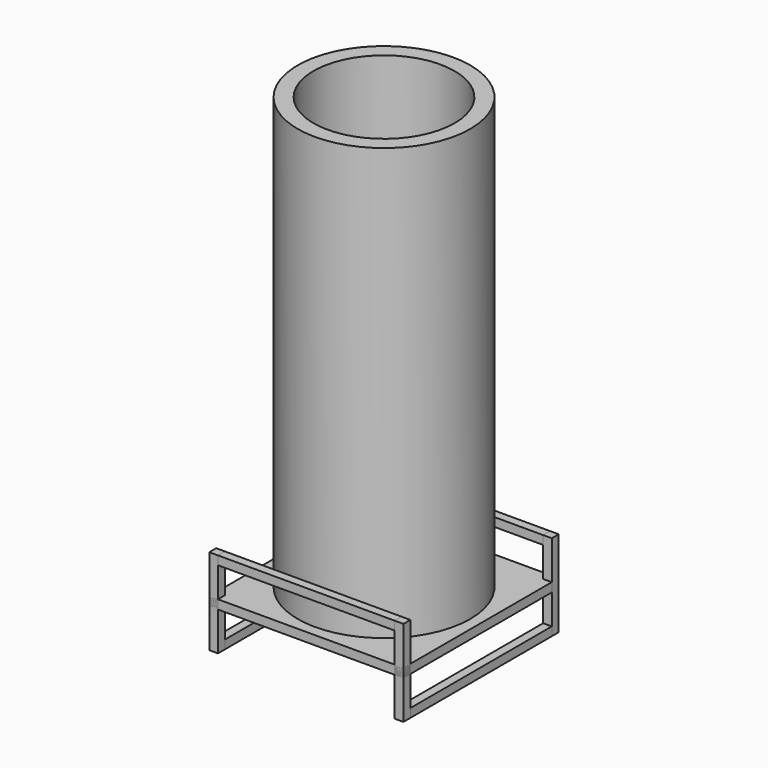
from build123d import *

# Parameters (mm, degrees)
F0_R          = 76.2
F0_R_2        = 62.357
F1_DEPTH      = 381
F3_W          = 7.665903
F3_H          = 7.665903
F4_DEPTH      = 3.96875
F5_DEPTH      = 1.524
F6_DEPTH      = 38.1
F6_DEPTH_BACK = 38.1
F7_COUNT      = 4
F8_W          = 7.665903
F8_H          = 7.665903
F9_DEPTH      = 156.118194
F10_W         = 7.665903
F10_H         = 7.665903
F11_DEPTH     = 156.118194


with BuildPart() as f1:
    # F0 (on Top) → F1 (new body)
    with BuildSketch(Plane.XY):
        Circle(F0_R)
        Circle(F0_R_2, mode=Mode.SUBTRACT)
    extrude(amount=F1_DEPTH)


with BuildPart() as f4:
    # F3 (on offset) → F4 (new body, symmetric)
    with BuildSketch(Plane.XY.offset(-3.96875)):
        with Locations((81.892048, 81.892048)):
            Rectangle(F3_W, F3_H)
        Polygon((78.059097, 78.059097), (78.059097, 85.725), (-85.725, 85.725), (-85.725, -85.725), (85.725, -85.725), (85.725, 78.059097), align=None)
    extrude(amount=F4_DEPTH, both=True)

    # F0 (on Top) → F5 (cut)
    with BuildSketch(Plane.XY):
        Circle(F0_R)
        Circle(F0_R_2, mode=Mode.SUBTRACT)
    extrude(amount=-F5_DEPTH, mode=Mode.SUBTRACT)


with BuildPart() as f6:
    # F3 (on offset) → F6 (new body, two sides)
    with BuildSketch(Plane.XY.offset(-3.96875)) as f6_sk:
        with Locations((81.892048, 81.892048)):
            Rectangle(F3_W, F3_H)
    extrude(amount=F6_DEPTH)
    extrude(f6_sk.sketch, amount=-F6_DEPTH_BACK)


with BuildPart() as f7_1:
    # F7: instance of F6
    add(f6.part.rotate(Axis((0, 0, 0), (0, 0, 1)), 1 * 360 / F7_COUNT))


with BuildPart() as f7_2:
    # F7: instance of F6
    add(f6.part.rotate(Axis((0, 0, 0), (0, 0, 1)), 2 * 360 / F7_COUNT))


with BuildPart() as f7_3:
    # F7: instance of F6
    add(f6.part.rotate(Axis((0, 0, 0), (0, 0, 1)), 3 * 360 / F7_COUNT))


with BuildPart() as f9:
    # F8 (on face) → F9 (new body, through all)
    with BuildSketch(Plane.YZ.offset(-78.059097)):
        with Locations((81.892048, 30.298299)):
            Rectangle(F8_W, F8_H)
        with Locations((-81.892048, 30.298299)):
            Rectangle(F8_W, F8_H)
    extrude(amount=F9_DEPTH)


with BuildPart() as f11:
    # F10 (on face) → F11 (new body, through all)
    with BuildSketch(Plane.XZ.offset(-78.059097)):
        with Locations((81.892048, -38.235799)):
            Rectangle(F10_W, F10_H)
        with Locations((-81.892048, -38.235799)):
            Rectangle(F10_W, F10_H)
    extrude(amount=F11_DEPTH)


solid = Compound([f1.part, f4.part, f6.part, f7_1.part, f7_2.part, f7_3.part, f9.part, f11.part])
